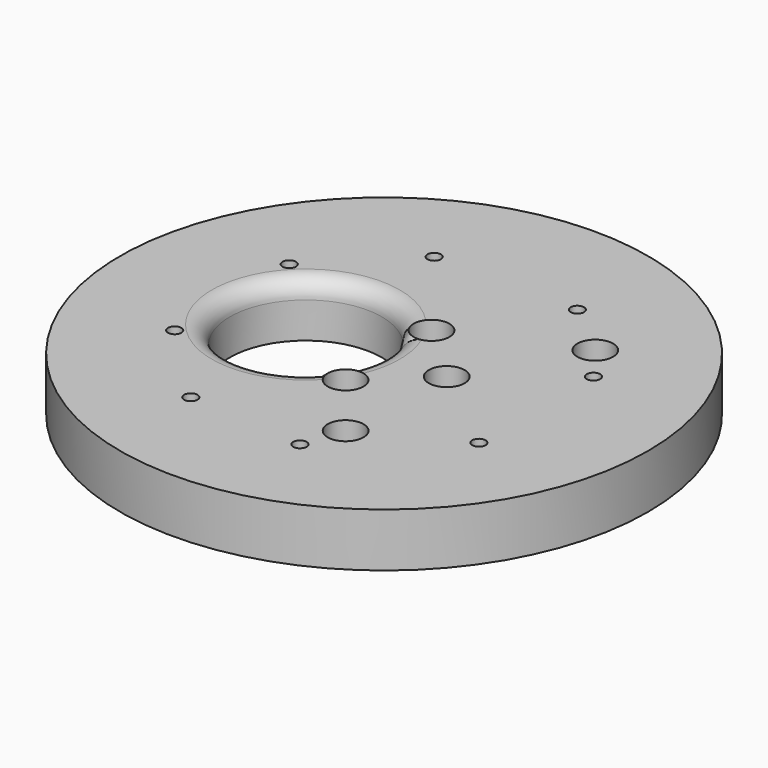
from build123d import *

# Parameters (mm, degrees)
CYLINDER2014_R     = 59
CYLINDER2014_DEPTH = 16
CYLINDER2078_R     = 17
CYLINDER2078_DEPTH = 160
CYLINDER2021_R     = 4
CYLINDER2021_DEPTH = 100
CYLINDER2022_R     = 4
CYLINDER2022_DEPTH = 100
CYLINDER2042_R     = 1.5
CYLINDER2042_DEPTH = 100
CYLINDER2058_R     = 1.5
CYLINDER2058_DEPTH = 100
CYLINDER2057_R     = 1.5
CYLINDER2057_DEPTH = 100
CYLINDER2039_R     = 1.5
CYLINDER2039_DEPTH = 100
CYLINDER2038_R     = 1.5
CYLINDER2038_DEPTH = 100
CYLINDER2037_R     = 1.5
CYLINDER2037_DEPTH = 100
CYLINDER2036_R     = 1.5
CYLINDER2036_DEPTH = 100
CYLINDER2061_R     = 1.5
CYLINDER2061_DEPTH = 100
CYLINDER2059_R     = 4
CYLINDER2059_DEPTH = 100
CYLINDER2020_R     = 4
CYLINDER2020_DEPTH = 100
CYLINDER2019_R     = 4
CYLINDER2019_DEPTH = 100
CYLINDER2017_R     = 4
CYLINDER2017_DEPTH = 100
CYLINDER2015_R     = 4
CYLINDER2015_DEPTH = 100
CYLINDER2016_R     = 4
CYLINDER2016_DEPTH = 100
CYLINDER2018_R     = 4
CYLINDER2018_DEPTH = 100
CYLINDER2060_R     = 4
CYLINDER2060_DEPTH = 100
CYLINDER2029_R     = 4
CYLINDER2029_DEPTH = 20
CYLINDER2028_R     = 4
CYLINDER2028_DEPTH = 20
CYLINDER2027_R     = 4
CYLINDER2027_DEPTH = 20
CYLINDER2026_R     = 4
CYLINDER2026_DEPTH = 40
CYLINDER2025_R     = 4
CYLINDER2025_DEPTH = 40
CYLINDER2024_R     = 4
CYLINDER2024_DEPTH = 40
CYLINDER2023_R     = 4
CYLINDER2023_DEPTH = 40
CYLINDER2050_R     = 4
CYLINDER2050_DEPTH = 20
CYLINDER2030_R     = 59
CYLINDER2030_DEPTH = 16
CHAMFER071_SIZE    = 4
FILLET007_R        = 4


with BuildPart() as obj1:
    # Cylinder2014 → Cylinder2014 (new body)
    with BuildSketch(Plane(origin=(-0.5, 0, 19.85), x_dir=(1, 0, 0), z_dir=(0, 0, 1))):
        Circle(CYLINDER2014_R)
    extrude(amount=CYLINDER2014_DEPTH)


with BuildPart() as obj2:
    # Cylinder2078 → Cylinder2078 (new body)
    with BuildSketch(Plane(origin=(-18, 0, -60), x_dir=(1, 0, 0), z_dir=(0, 0, 1))):
        Circle(CYLINDER2078_R)
    extrude(amount=CYLINDER2078_DEPTH)


with BuildPart() as obj3:
    # Cylinder2021 → Cylinder2021 (new body)
    with BuildSketch(Plane(origin=(14, 0, -18), x_dir=(1, 0, 0), z_dir=(0, 0, 1))):
        Circle(CYLINDER2021_R)
    extrude(amount=CYLINDER2021_DEPTH)


with BuildPart() as obj4:
    # Cylinder2022 → Cylinder2022 (new body)
    with BuildSketch(Plane(origin=(90, 0, -18), x_dir=(1, 0, 0), z_dir=(0, 0, 1))):
        Circle(CYLINDER2022_R)
    extrude(amount=CYLINDER2022_DEPTH)

    # Compound1009: union obj3
    add(obj3.part)


with BuildPart() as obj5:
    # Cylinder2042 → Cylinder2042 (new body)
    with BuildSketch(Plane(origin=(-34, -16, -60), x_dir=(1, 0, 0), z_dir=(0, 0, 1))):
        Circle(CYLINDER2042_R)
    extrude(amount=CYLINDER2042_DEPTH)


with BuildPart() as obj6:
    # Cylinder2058 → Cylinder2058 (new body)
    with BuildSketch(Plane(origin=(34, -16, -60), x_dir=(1, 0, 0), z_dir=(0, 0, 1))):
        Circle(CYLINDER2058_R)
    extrude(amount=CYLINDER2058_DEPTH)


with BuildPart() as obj7:
    # Cylinder2057 → Cylinder2057 (new body)
    with BuildSketch(Plane(origin=(34, 16, -60), x_dir=(1, 0, 0), z_dir=(0, 0, 1))):
        Circle(CYLINDER2057_R)
    extrude(amount=CYLINDER2057_DEPTH)


with BuildPart() as obj8:
    # Cylinder2039 → Cylinder2039 (new body)
    with BuildSketch(Plane(origin=(16, 34, -60), x_dir=(1, 0, 0), z_dir=(0, 0, 1))):
        Circle(CYLINDER2039_R)
    extrude(amount=CYLINDER2039_DEPTH)


with BuildPart() as obj9:
    # Cylinder2038 → Cylinder2038 (new body)
    with BuildSketch(Plane(origin=(10, -36, -60), x_dir=(1, 0, 0), z_dir=(0, 0, 1))):
        Circle(CYLINDER2038_R)
    extrude(amount=CYLINDER2038_DEPTH)


with BuildPart() as obj10:
    # Cylinder2037 → Cylinder2037 (new body)
    with BuildSketch(Plane(origin=(-16, -34, -60), x_dir=(1, 0, 0), z_dir=(0, 0, 1))):
        Circle(CYLINDER2037_R)
    extrude(amount=CYLINDER2037_DEPTH)


with BuildPart() as obj11:
    # Cylinder2036 → Cylinder2036 (new body)
    with BuildSketch(Plane(origin=(-16, 34, -60), x_dir=(1, 0, 0), z_dir=(0, 0, 1))):
        Circle(CYLINDER2036_R)
    extrude(amount=CYLINDER2036_DEPTH)


with BuildPart() as obj12:
    # Cylinder2061 → Cylinder2061 (new body)
    with BuildSketch(Plane(origin=(-34, 16, -60), x_dir=(1, 0, 0), z_dir=(0, 0, 1))):
        Circle(CYLINDER2061_R)
    extrude(amount=CYLINDER2061_DEPTH)

    # Compound993: union obj5, obj6, obj7, obj8, obj9, obj10, obj11
    add(obj5.part)
    add(obj6.part)
    add(obj7.part)
    add(obj8.part)
    add(obj9.part)
    add(obj10.part)
    add(obj11.part)


with BuildPart() as obj13:
    # Cylinder2059 → Cylinder2059 (new body)
    with BuildSketch(Plane(origin=(-16, 34, -90), x_dir=(1, 0, 0), z_dir=(0, 0, 1))):
        Circle(CYLINDER2059_R)
    extrude(amount=CYLINDER2059_DEPTH)


with BuildPart() as obj14:
    # Cylinder2020 → Cylinder2020 (new body)
    with BuildSketch(Plane(origin=(-16, -34, -90), x_dir=(1, 0, 0), z_dir=(0, 0, 1))):
        Circle(CYLINDER2020_R)
    extrude(amount=CYLINDER2020_DEPTH)


with BuildPart() as obj15:
    # Cylinder2019 → Cylinder2019 (new body)
    with BuildSketch(Plane(origin=(34, -16, -90), x_dir=(1, 0, 0), z_dir=(0, 0, 1))):
        Circle(CYLINDER2019_R)
    extrude(amount=CYLINDER2019_DEPTH)


with BuildPart() as obj16:
    # Cylinder2017 → Cylinder2017 (new body)
    with BuildSketch(Plane(origin=(16, 34, -90), x_dir=(1, 0, 0), z_dir=(0, 0, 1))):
        Circle(CYLINDER2017_R)
    extrude(amount=CYLINDER2017_DEPTH)


with BuildPart() as obj17:
    # Cylinder2015 → Cylinder2015 (new body)
    with BuildSketch(Plane(origin=(10, -36, -90), x_dir=(1, 0, 0), z_dir=(0, 0, 1))):
        Circle(CYLINDER2015_R)
    extrude(amount=CYLINDER2015_DEPTH)


with BuildPart() as obj18:
    # Cylinder2016 → Cylinder2016 (new body)
    with BuildSketch(Plane(origin=(-34, 16, -90), x_dir=(1, 0, 0), z_dir=(0, 0, 1))):
        Circle(CYLINDER2016_R)
    extrude(amount=CYLINDER2016_DEPTH)


with BuildPart() as obj19:
    # Cylinder2018 → Cylinder2018 (new body)
    with BuildSketch(Plane(origin=(34, 16, -90), x_dir=(1, 0, 0), z_dir=(0, 0, 1))):
        Circle(CYLINDER2018_R)
    extrude(amount=CYLINDER2018_DEPTH)


with BuildPart() as obj20:
    # Cylinder2060 → Cylinder2060 (new body)
    with BuildSketch(Plane(origin=(-34, -16, -90), x_dir=(1, 0, 0), z_dir=(0, 0, 1))):
        Circle(CYLINDER2060_R)
    extrude(amount=CYLINDER2060_DEPTH)

    # Compound1008: union obj13, obj14, obj15, obj16, obj17, obj18, obj19
    add(obj13.part)
    add(obj14.part)
    add(obj15.part)
    add(obj16.part)
    add(obj17.part)
    add(obj18.part)
    add(obj19.part)


with BuildPart() as obj21:
    # Cylinder2029 → Cylinder2029 (new body)
    with BuildSketch(Plane(origin=(103, 12, -20), x_dir=(1, 0, 0), z_dir=(0, 0, 1))):
        Circle(CYLINDER2029_R)
    extrude(amount=CYLINDER2029_DEPTH)


with BuildPart() as obj22:
    # Cylinder2028 → Cylinder2028 (new body)
    with BuildSketch(Plane(origin=(76, 24, -18), x_dir=(1, 0, 0), z_dir=(0, 0, 1))):
        Circle(CYLINDER2028_R)
    extrude(amount=CYLINDER2028_DEPTH)


with BuildPart() as obj23:
    # Cylinder2027 → Cylinder2027 (new body)
    with BuildSketch(Plane(origin=(91, -27, -18), x_dir=(1, 0, 0), z_dir=(0, 0, 1))):
        Circle(CYLINDER2027_R)
    extrude(amount=CYLINDER2027_DEPTH)


with BuildPart() as obj24:
    # Cylinder2026 → Cylinder2026 (new body)
    with BuildSketch(Plane(origin=(13, -27, -18), x_dir=(1, 0, 0), z_dir=(0, 0, 1))):
        Circle(CYLINDER2026_R)
    extrude(amount=CYLINDER2026_DEPTH)


with BuildPart() as obj25:
    # Cylinder2025 → Cylinder2025 (new body)
    with BuildSketch(Plane(origin=(28, 24, -18), x_dir=(1, 0, 0), z_dir=(0, 0, 1))):
        Circle(CYLINDER2025_R)
    extrude(amount=CYLINDER2025_DEPTH)


with BuildPart() as obj26:
    # Cylinder2024 → Cylinder2024 (new body)
    with BuildSketch(Plane(origin=(1, -12, -18), x_dir=(1, 0, 0), z_dir=(0, 0, 1))):
        Circle(CYLINDER2024_R)
    extrude(amount=CYLINDER2024_DEPTH)


with BuildPart() as obj27:
    # Cylinder2023 → Cylinder2023 (new body)
    with BuildSketch(Plane(origin=(1, 12, -18), x_dir=(1, 0, 0), z_dir=(0, 0, 1))):
        Circle(CYLINDER2023_R)
    extrude(amount=CYLINDER2023_DEPTH)


with BuildPart() as obj28:
    # Cylinder2050 → Cylinder2050 (new body)
    with BuildSketch(Plane(origin=(103, -12, -20), x_dir=(1, 0, 0), z_dir=(0, 0, 1))):
        Circle(CYLINDER2050_R)
    extrude(amount=CYLINDER2050_DEPTH)

    # Compound1007: union obj21, obj22, obj23, obj24, obj25, obj26, obj27
    add(obj21.part)
    add(obj22.part)
    add(obj23.part)
    add(obj24.part)
    add(obj25.part)
    add(obj26.part)
    add(obj27.part)


with BuildPart() as common003:
    # Cylinder2030 → Cylinder2030 (new body)
    with BuildSketch(Plane.XY.offset(2)):
        Circle(CYLINDER2030_R)
    extrude(amount=CYLINDER2030_DEPTH)

    # Cut669: cut obj28
    add(obj28.part, mode=Mode.SUBTRACT)

    # Cut670: cut obj20
    add(obj20.part, mode=Mode.SUBTRACT)

    # Cut674: cut obj12
    add(obj12.part, mode=Mode.SUBTRACT)

    # Chamfer071
    chamfer071_edges = [common003.edges().sort_by_distance(p)[0] for p in [
        (-59, 0, 2),
    ]]
    chamfer(chamfer071_edges, length=CHAMFER071_SIZE)

    # Cut675: cut obj4
    add(obj4.part, mode=Mode.SUBTRACT)


with BuildPart() as common003_1:
    # Cut675 placement: moved
    add(common003.part.moved(Location((-0.5, 0, 14))))

    # Cut668: cut obj2
    add(obj2.part, mode=Mode.SUBTRACT)

    # Fillet007
    fillet007_edges = [common003_1.edges().sort_by_distance(p)[0] for p in [
        (-35, 0, 32),
    ]]
    fillet(fillet007_edges, radius=FILLET007_R)


with BuildPart() as common003_2:
    # Fillet007 placement: moved
    add(common003_1.part.moved(Location((0, 0, -0.15))))

    # Common003: intersect obj1
    add(obj1.part, mode=Mode.INTERSECT)


solid = common003_2.part
